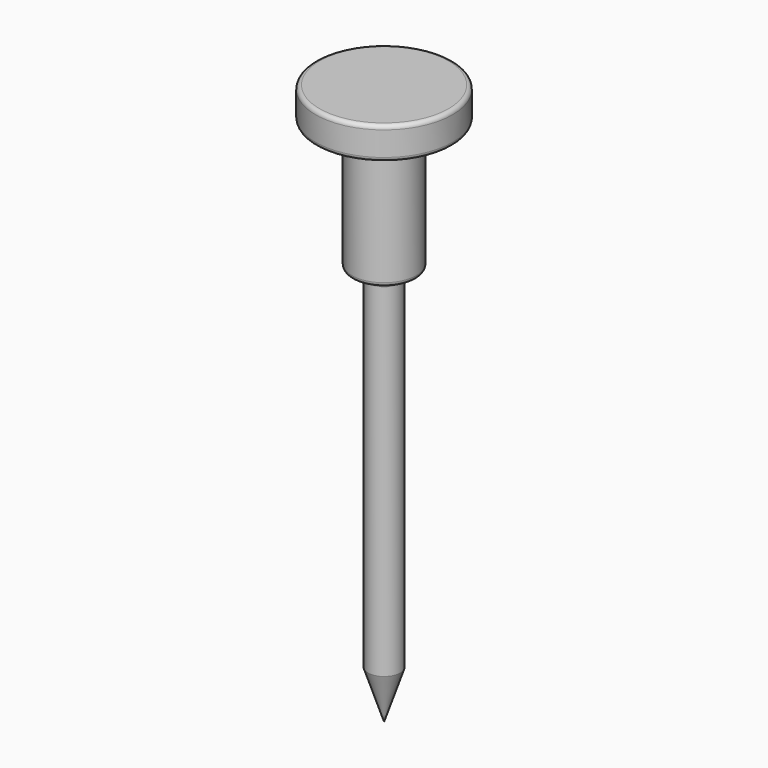
from build123d import *

# Parameters (mm, degrees)
F2_R = 1
F3_R = 2


with BuildPart() as f1:
    # F0 (on Front) → F1 (revolve)
    with BuildSketch(Plane.XZ):
        Polygon((17, 69.5), (0, 69.5), (0, -69.5), (4, -57.5), (4, 29.5), (8, 29.5), (8, 39.5), (8, 61.5), (17, 61.5), align=None)
    revolve(axis=Axis((0, 0, 0), (0, 0, -1)))

    # F2
    f2_edges = [f1.edges().sort_by_distance(p)[0] for p in [
        (-17, 0, 69.5),
        (-17, 0, 61.5),
        (-8, 0, 29.5),
    ]]
    fillet(f2_edges, radius=F2_R)

    # F3
    f3_edges = [f1.edges().sort_by_distance(p)[0] for p in [
        (-8, 0, 61.5),
        (-4, 0, 29.5),
    ]]
    fillet(f3_edges, radius=F3_R)


solid = f1.part
